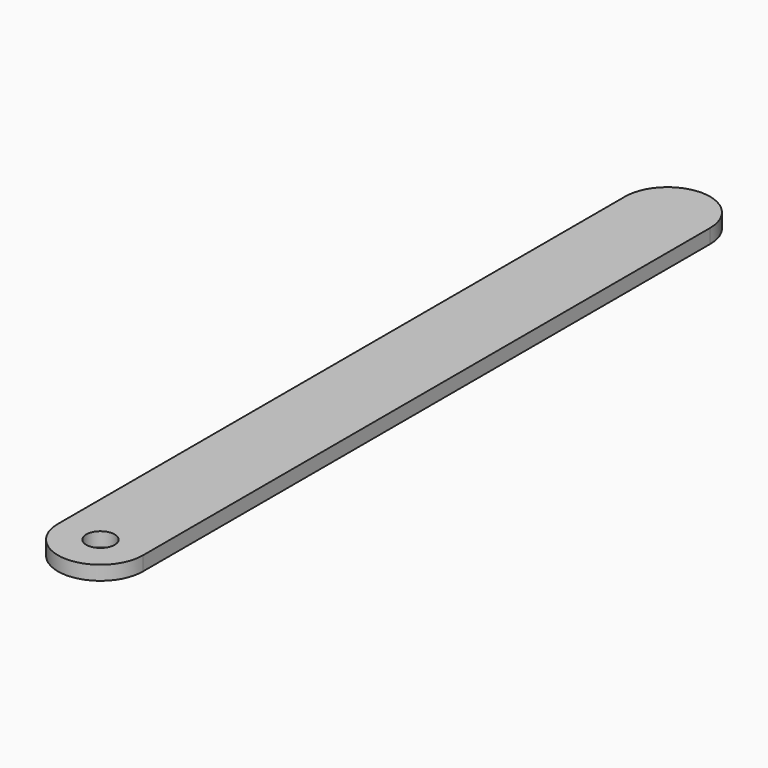
from build123d import *

# Parameters (mm, degrees)
SKETCH_R  = 1
PAD_DEPTH = 1


with BuildPart() as part:
    # Sketch → Pad (new body)
    with BuildSketch(Plane.XY):
        with BuildLine():
            ThreePointArc((3, 50), (0, 53), (-3, 50))
            Line((-3, 50), (-3, 0))
            ThreePointArc((-3, 0), (0, -3), (3, 0))
            Line((3, 50), (3, 0))
        make_face()
        Circle(SKETCH_R, mode=Mode.SUBTRACT)
    extrude(amount=PAD_DEPTH)


solid = part.part
